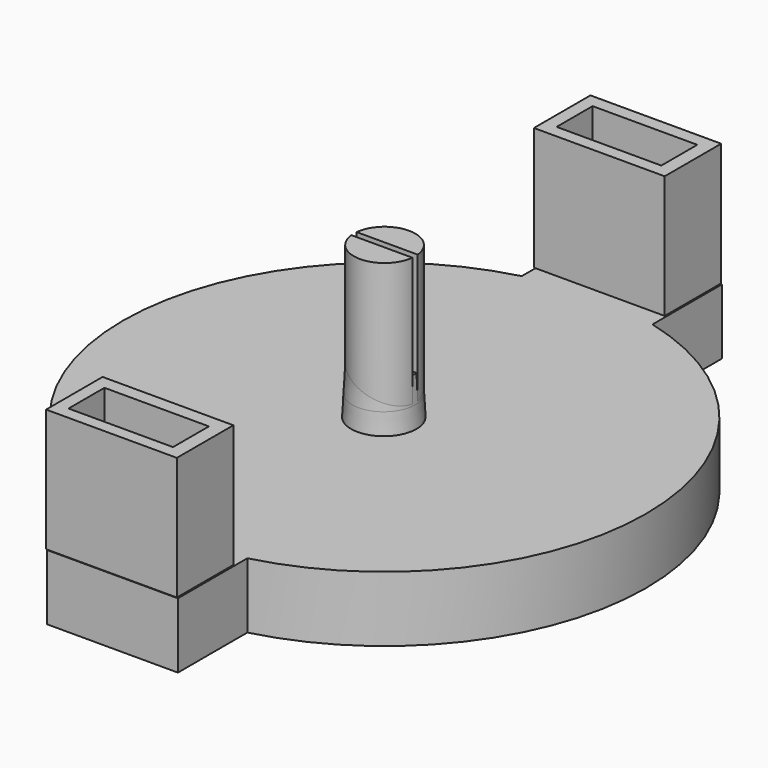
from build123d import *

# Parameters (mm, degrees)
F0_R           = 2.9845
F1_DEPTH       = 14.732
F2_W           = 7.293083705
F2_H           = 0.6463081809
F3_DEPTH       = 25.4
F4_R           = 25.4
F5_DEPTH       = 6.35
F7_DEPTH       = 6.35
F8_W           = 12.7
F8_H           = 6.858
F9_DEPTH       = 11.938
F11_DEPTH      = 25.4
F13_DEPTH      = 25.4
F14_W          = 5.7489185128
F14_H          = 1.582127763
F15_DEPTH      = 2.667
F17_R          = 3.0649258181
F18_DEPTH      = 5.08
F18_TAPER      = -3
F18_DEPTH_BACK = 2.54
F18_TAPER_BACK = 3


with BuildPart() as f1:
    # F0 (on Top) → F1 (new body)
    with BuildSketch(Plane.XY):
        Circle(F0_R)
    extrude(amount=F1_DEPTH)

    # F2 (on Top) → F3 (cut)
    with BuildSketch(Plane.XY):
        with Locations((-0.53606648, 0)):
            Rectangle(F2_W, F2_H)
    extrude(amount=F3_DEPTH, mode=Mode.SUBTRACT)



with BuildPart() as f5:
    # F4 (on Top) → F5 (new body)
    with BuildSketch(Plane.XY):
        Circle(F4_R)
    extrude(amount=-F5_DEPTH)


with BuildPart() as f7:
    # F6 (on Top) → F7 (new body)
    with BuildSketch(Plane.XY):
        Polygon((6.35, 33.02), (0, 33.02), (-6.35, 33.02), (-6.35, -33.02), (6.35, -33.02), align=None)
    extrude(amount=-F7_DEPTH)

    # F8 (on Top) → F9 (join)
    with BuildSketch(Plane.XY):
        with Locations((-0.1506691359, 29.6887743422)):
            Rectangle(F8_W, F8_H)
        with Locations((-0.1506691359, -29.5306027732)):
            Rectangle(F8_W, F8_H)
    extrude(amount=F9_DEPTH)

    # F10 (on Top) → F11 (cut)
    with BuildSketch(Plane.XY):
        Polygon((4.8673646525, -31.7627712542), (4.8673646525, -29.4287092984), (4.8673646525, -27.4035874754), (-1.8467506161, -27.4035874754), (-5.2787689492, -27.4035874754), (-5.2787689492, -29.4508635998), (-5.2787689492, -31.7627712542), align=None)
    extrude(amount=F11_DEPTH, mode=Mode.SUBTRACT)

    # F12 (on Top) → F13 (cut)
    with BuildSketch(Plane.XY):
        Polygon((-5.2687884308, 27.4780225009), (-1.7242872855, 27.4780225009), (4.8994985409, 27.4780225009), (4.8994985409, 29.8927128315), (4.8994985409, 31.842187047), (-0.8160090074, 31.842187047), (-5.2687884308, 31.842187047), (-5.2687884308, 29.5382626355), align=None)
    extrude(amount=F13_DEPTH, mode=Mode.SUBTRACT)


with BuildPart() as f15:
    # F14 (on face) → F15 (new body)
    with BuildSketch(Plane.XY):
        with Locations((-0.009511481, 0.0064342166)):
            Rectangle(F14_W, F14_H)
    extrude(amount=F15_DEPTH)


with BuildPart() as f1_1:
    add(f1.part)

    add(f5.part)  # F18 merges F5

    add(f7.part)  # F18 merges F7

    add(f15.part)  # F18 merges F15
    # F17 (on offset) → F18 (join, two sides)
    with BuildSketch(Plane.XY.offset(2.032)) as f18_sk:
        with Locations((-0.0702725374, 0)):
            Circle(F17_R)
    extrude(amount=-F18_DEPTH, taper=F18_TAPER)
    extrude(f18_sk.sketch, amount=F18_DEPTH_BACK, taper=F18_TAPER_BACK)


solid = f1_1.part
